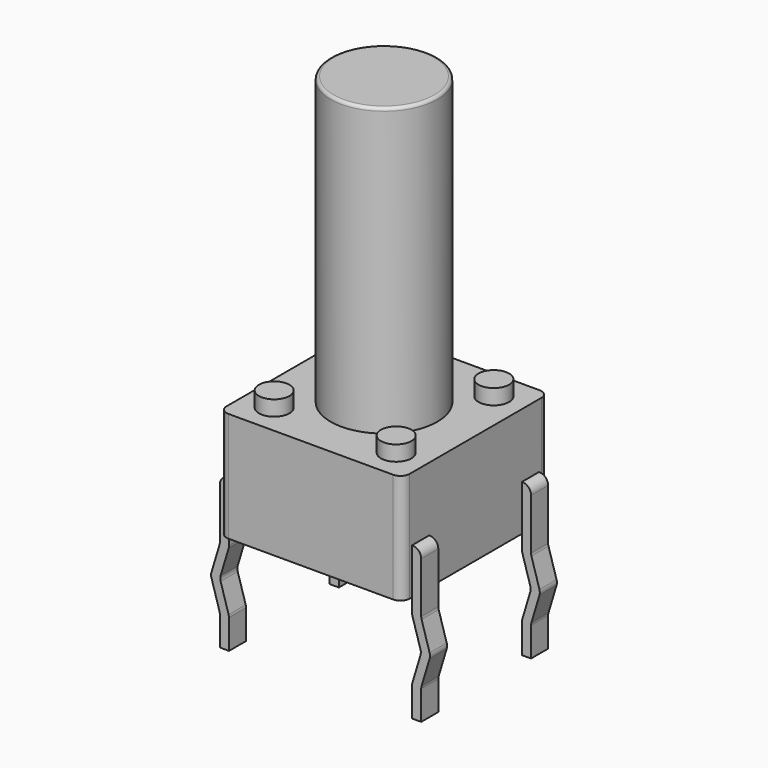
from build123d import *

# Parameters (mm, degrees)
SKETCH001_W  = 6
SKETCH001_H  = 6
PAD001_DEPTH = 0.1
FILLET001_R  = 0.3
PAD008_DEPTH = 0.7
FILLET003_R  = 0.29
PAD009_DEPTH = 0.7
FILLET004_R  = 0.29
PAD010_DEPTH = 0.7
FILLET005_R  = 0.29
SKETCH_W     = 6
SKETCH_H     = 6
PAD_DEPTH    = 3.5
FILLET_R     = 0.3
SKETCH004_R  = 0.5
PAD003_DEPTH = 0.6
SKETCH003_R  = 0.5
PAD004_DEPTH = 0.6
SKETCH005_R  = 0.5
PAD002_DEPTH = 0.6
SKETCH002_R  = 0.5
PAD005_DEPTH = 0.6
SKETCH006_R  = 1.75
PAD006_DEPTH = 9.5
FILLET006_R  = 0.1
PAD007_DEPTH = 0.7
FILLET002_R  = 0.29


with BuildPart() as fillet001:
    # Sketch001 → Pad001 (new body)
    with BuildSketch(Plane.XY.offset(3.5)):
        with Locations((3.15, -2.25)):
            Rectangle(SKETCH001_W, SKETCH001_H)
    extrude(amount=PAD001_DEPTH)

    # Fillet001
    fillet001_edges = [fillet001.edges().sort_by_distance(p)[0] for p in [
        (6.15, -5.25, 3.55),
        (0.15, -5.25, 3.55),
        (6.15, 0.75, 3.55),
        (0.15, 0.75, 3.55),
    ]]
    fillet(fillet001_edges, radius=FILLET001_R)


with BuildPart() as fillet003:
    # Sketch008 → Pad008 (new body)
    with BuildSketch(Plane.XZ.offset(0.35)):
        Polygon((-0.15, 1.5), (0.15, 1.5), (0.15, -0.5), (-0.15, -1.5), (0.15, -2.5), (0.15, -3.5), (-0.15, -3.5), (-0.15, -2.5), (-0.45, -1.5), (-0.15, -0.5), align=None)
    extrude(amount=-PAD008_DEPTH)

    # Fillet003
    fillet003_edges = [fillet003.edges().sort_by_distance(p)[0] for p in [
        (-0.15, 0, -2.5),
        (-0.15, 0, -0.5),
        (-0.45, 0, -1.5),
        (-0.15, 0, 1.5),
        (0.15, 0, -0.5),
        (-0.15, 0, -1.5),
        (0.15, 0, -2.5),
    ]]
    fillet(fillet003_edges, radius=FILLET003_R)


with BuildPart() as fillet004:
    # Sketch009 → Pad009 (new body)
    with BuildSketch(Plane.XZ.offset(4.85)):
        Polygon((6.45, 1.5), (6.15, 1.5), (6.15, -0.5), (6.45, -1.5), (6.15, -2.5), (6.15, -3.5), (6.45, -3.5), (6.45, -2.5), (6.75, -1.5), (6.45, -0.5), align=None)
    extrude(amount=-PAD009_DEPTH)

    # Fillet004
    fillet004_edges = [fillet004.edges().sort_by_distance(p)[0] for p in [
        (6.45, -4.5, -2.5),
        (6.45, -4.5, -0.5),
        (6.75, -4.5, -1.5),
        (6.45, -4.5, 1.5),
        (6.15, -4.5, -0.5),
        (6.45, -4.5, -1.5),
        (6.15, -4.5, -2.5),
    ]]
    fillet(fillet004_edges, radius=FILLET004_R)


with BuildPart() as fillet005:
    # Sketch010 → Pad010 (new body)
    with BuildSketch(Plane.XZ.offset(0.35)):
        Polygon((6.45, 1.5), (6.15, 1.5), (6.15, -0.5), (6.45, -1.5), (6.15, -2.5), (6.15, -3.5), (6.45, -3.5), (6.45, -2.5), (6.75, -1.5), (6.45, -0.5), align=None)
    extrude(amount=-PAD010_DEPTH)

    # Fillet005
    fillet005_edges = [fillet005.edges().sort_by_distance(p)[0] for p in [
        (6.45, 0, -2.5),
        (6.45, 0, -0.5),
        (6.75, 0, -1.5),
        (6.45, 0, 1.5),
        (6.15, 0, -0.5),
        (6.45, 0, -1.5),
        (6.15, 0, -2.5),
    ]]
    fillet(fillet005_edges, radius=FILLET005_R)


with BuildPart() as fillet_body:
    # Sketch → Pad (new body)
    with BuildSketch(Plane.XY):
        with Locations((3.15, -2.25)):
            Rectangle(SKETCH_W, SKETCH_H)
    extrude(amount=PAD_DEPTH)

    # Fillet
    fillet_edges = [fillet_body.edges().sort_by_distance(p)[0] for p in [
        (6.15, 0.75, 1.75),
        (6.15, -5.25, 1.75),
        (0.15, -5.25, 1.75),
        (0.15, 0.75, 1.75),
    ]]
    fillet(fillet_edges, radius=FILLET_R)


with BuildPart() as pad003:
    # Pad003 base: copy of Fillet body
    add(fillet_body.part)

    # Sketch004 → Pad003 (new body)
    with BuildSketch(Plane.XY.offset(3.5)):
        with Locations((5.15, -0.25)):
            Circle(SKETCH004_R)
    extrude(amount=PAD003_DEPTH)


with BuildPart() as pad004:
    # Pad004 base: copy of Fillet body
    add(fillet_body.part)

    # Sketch003 → Pad004 (new body)
    with BuildSketch(Plane.XY.offset(3.5)):
        with Locations((5.15, -4.25)):
            Circle(SKETCH003_R)
    extrude(amount=PAD004_DEPTH)


with BuildPart() as pad002:
    # Pad002 base: copy of Fillet body
    add(fillet_body.part)

    # Sketch005 → Pad002 (new body)
    with BuildSketch(Plane.XY.offset(3.5)):
        with Locations((1.15, -0.25)):
            Circle(SKETCH005_R)
    extrude(amount=PAD002_DEPTH)


with BuildPart() as pad005:
    # Pad005 base: copy of Fillet body
    add(fillet_body.part)

    # Sketch002 → Pad005 (new body)
    with BuildSketch(Plane.XY.offset(3.5)):
        with Locations((1.15, -4.25)):
            Circle(SKETCH002_R)
    extrude(amount=PAD005_DEPTH)


with BuildPart() as fillet006:
    # Pad006 base: copy of Fillet body
    add(fillet_body.part)

    # Sketch006 → Pad006 (new body)
    with BuildSketch(Plane.XY.offset(3.5)):
        with Locations((3.15, -2.25)):
            Circle(SKETCH006_R)
    extrude(amount=PAD006_DEPTH)

    # Fillet006
    fillet006_edges = [fillet006.edges().sort_by_distance(p)[0] for p in [
        (1.4, -2.25, 13),
    ]]
    fillet(fillet006_edges, radius=FILLET006_R)


with BuildPart() as obj1:
    # Sketch007 → Pad007 (new body)
    with BuildSketch(Plane.XZ.offset(4.85)):
        Polygon((-0.15, 1.5), (0.15, 1.5), (0.15, -0.5), (-0.15, -1.5), (0.15, -2.5), (0.15, -3.5), (-0.15, -3.5), (-0.15, -2.5), (-0.45, -1.5), (-0.15, -0.5), align=None)
    extrude(amount=-PAD007_DEPTH)

    # Fillet002
    fillet002_edges = [obj1.edges().sort_by_distance(p)[0] for p in [
        (-0.15, -4.5, -2.5),
        (-0.15, -4.5, -0.5),
        (-0.45, -4.5, -1.5),
        (-0.15, -4.5, 1.5),
        (0.15, -4.5, -0.5),
        (-0.15, -4.5, -1.5),
        (0.15, -4.5, -2.5),
    ]]
    fillet(fillet002_edges, radius=FILLET002_R)

    add(fillet001.part)
    add(fillet003.part)
    add(fillet004.part)
    add(fillet005.part)
    add(pad003.part)
    add(pad004.part)
    add(pad002.part)
    add(pad005.part)
    add(fillet006.part)


solid = obj1.part
